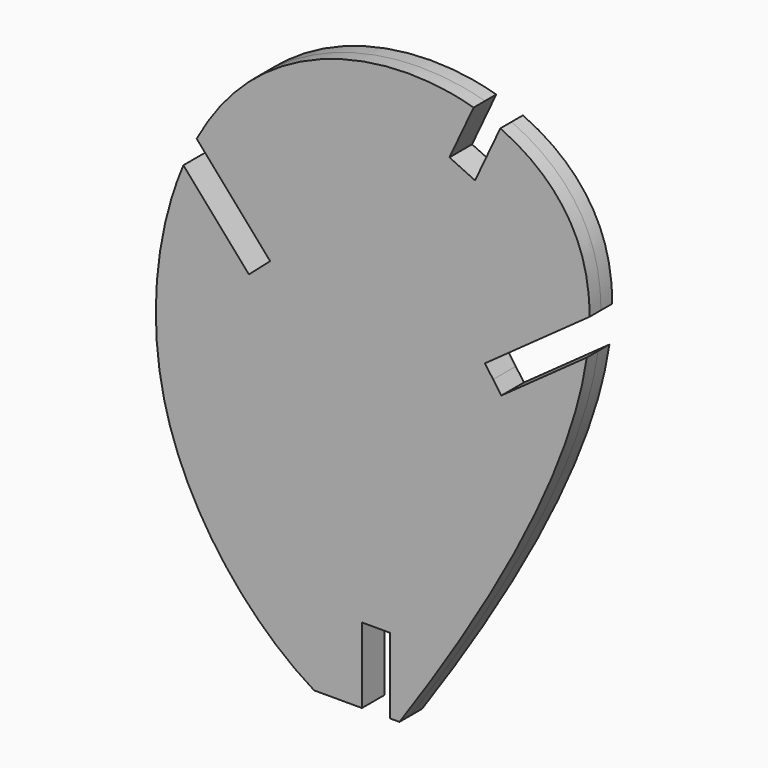
from build123d import *

# Parameters (mm, degrees)
F2_DEPTH = 1.5
F3_W     = 3
F3_H     = 16
F4_DEPTH = 25


with BuildPart() as f2:
    # F1 (on Front) → F2 (new body, symmetric)
    with BuildSketch(Plane.XZ):
        with BuildLine():
            add(Edge.make_bspline(
                [(-6.5811700188, 0), (-13.0977069694, 3.9364622169), (-27.8054503735, 20.8943752102), (-19.4177727212, 56.5137920169), (6.8547689493, 63.7937351975), (29.7863310593, 50.168239492), (17.9522950202, 22.4377531558), (2.4807401933, 0)],
                knots=[0, 0, 0, 0, 0.1910098898, 0.3977067511, 0.5751034644, 0.7310175316, 1, 1, 1, 1], degree=3))
            Line((-6.5811700188, 0), (2.4807401933, 0))
        make_face()
    extrude(amount=F2_DEPTH, both=True)

    # F3 (on face) → F4 (cut)
    with BuildSketch(Plane.XZ.offset(1.5)):
        Polygon((-27.1802046987, 54.5183615733), (-28.3089713791, 53.5304922594), (-13.4995171291, 36.6088020352), (-12.3707504488, 37.5966713491), (-11.2419837684, 38.584540663), (-26.0514380184, 55.5062308872), align=None)
        Polygon((9.1437500469, 53.8333112983), (10.5027554102, 53.1984062483), (15.7936308269, 64.5234509425), (14.4346254636, 65.1583559925), (13.0756201003, 65.7932610425), (7.7847446836, 54.4682163483), align=None)
        Polygon((13.2953272893, 34.0113688736), (33.6170477787, 48.572539031), (32.7433775692, 49.7918422604), (31.8697073598, 51.0111454897), (11.5479868704, 36.4499753323), (12.4216570799, 35.2306721029), align=None)
        Rectangle(F3_W, F3_H)
    extrude(amount=-F4_DEPTH, mode=Mode.SUBTRACT)


solid = f2.part
